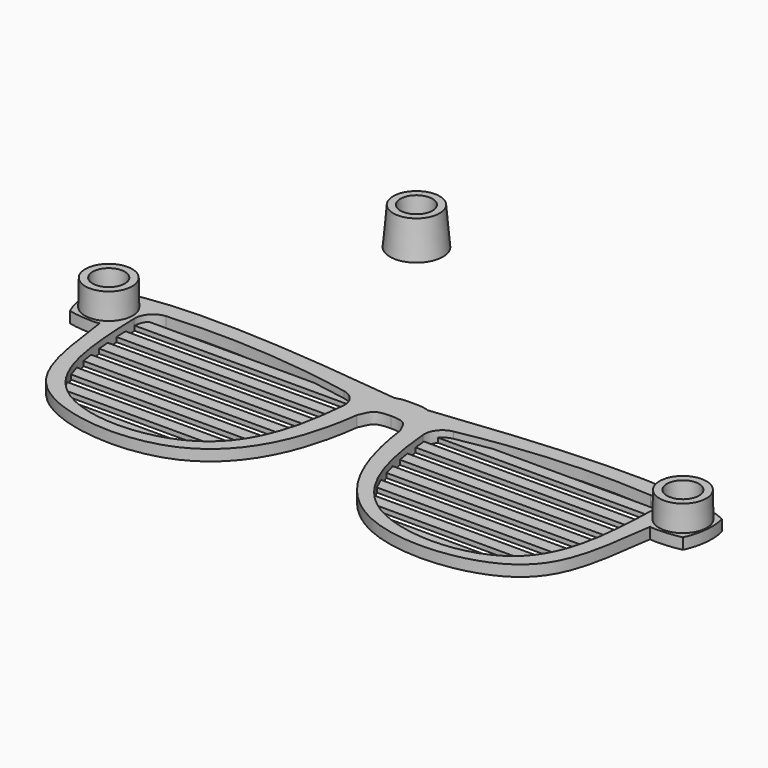
from build123d import *

# Parameters (mm, degrees)
F0_R     = 4.2545
F1_DEPTH = 3.048
F2_R     = 5.08
F3_W     = 65.2807955909
F3_H     = 3.302
F3_W_2   = 64.1696436953
F3_W_3   = 62.6255638493
F3_W_4   = 60.2943286079
F3_W_5   = 56.8069545572
F3_W_6   = 50.8615280304
F3_W_7   = 37.3823195696
F4_DEPTH = 1.27


with BuildPart() as f1:
    # F0 (on Top) → F1 (new body)
    with BuildSketch(Plane.XY):
        with BuildLine():
            Line((0, -8.8730009273), (0, -1.2523292311))
            add(Edge.make_bspline(
                [(0, -1.2523292311), (-1.4292717283, -1.2614199668), (-2.9572113157, -1.2042468041), (-4.5694260428, -1.8386781448)],
                knots=[0.0019069089, 0.0019069089, 0.0019069089, 0.0019069089, 4.6086544498, 4.6086544498, 4.6086544498, 4.6086544498], degree=3))
            add(Edge.make_bspline(
                [(-4.5694260428, -1.8386781448), (-23.0843636902, 0.1857081911), (-68.9428523183, 6.064933259), (-85.9333723783, -1.8386781448)],
                knots=[0, 0, 0, 0, 81.3639463355, 81.3639463355, 81.3639463355, 81.3639463355], degree=3))
            add(Edge.make_bspline(
                [(-85.9333723783, -1.8386781448), (-87.0814593515, -5.9048447471), (-86.3815992926, -10.3425437278), (-84.7224071622, -13.8138355687)],
                knots=[0, 0, 0, 0, 12.0362299779, 12.0362299779, 12.0362299779, 12.0362299779], degree=3))
            add(Edge.make_bspline(
                [(-84.7224071622, -13.8138355687), (-83.0701679625, -14.2861218212), (-77.9287879663, -14.8408171342), (-76.1110559106, -14.352045022)],
                knots=[0, 0, 0, 0, 8.6281539042, 8.6281539042, 8.6281539042, 8.6281539042], degree=3))
            add(Edge.make_bspline(
                [(-76.1110559106, -14.352045022), (-74.0379554043, -29.4360120441), (-71.9881603445, -50.8545666942), (-21.5287182005, -56.1706023297), (-8.3148330585, -31.3872885131), (-5.9164743883, -13.0610809346)],
                knots=[0, 0, 0, 0, 0.3150011717, 0.6467229326, 1, 1, 1, 1], degree=3))
            add(Edge.make_bspline(
                [(-5.9164743883, -13.0610809346), (-4.5382474029, -9.8770353113), (-4.35093372, -8.8730009273), (0, -8.8730009273)],
                knots=[0, 0, 0, 0, 7.2487711604, 7.2487711604, 7.2487711604, 7.2487711604], degree=3))
        make_face()
        with BuildLine():
            add(Edge.make_bspline(
                [(-71.8333795667, -3.2109194435), (-50.6750158966, -1.0436276207), (-29.6205928973, -2.9427556917), (-10.672422658, -7.01909621)],
                knots=[0, 0, 0, 0, 61.2793999666, 61.2793999666, 61.2793999666, 61.2793999666], degree=3))
            add(Edge.make_bspline(
                [(-10.672422658, -7.01909621), (-11.5552002954, -21.9885636193), (-16.4513738609, -50.7770592807), (-71.8775842024, -50.9692361726), (-71.2377431916, -18.4418388879), (-71.8333795667, -3.2109194435)],
                knots=[0, 0, 0, 0, 0.3334671903, 0.6588579594, 1, 1, 1, 1], degree=3))
        make_face(mode=Mode.SUBTRACT)
        with Locations((-79.375, -7.1177900798)):
            Circle(F0_R, mode=Mode.SUBTRACT)
    extrude(amount=F1_DEPTH)

    # F2
    f2_edges = [f1.edges().sort_by_distance(p)[0] for p in [
        (-71.83338, -3.210919, 1.524),
        (-10.672423, -7.019096, 1.524),
    ]]
    fillet(f2_edges, radius=F2_R)

    # F3 (on Top) → F4 (join)
    with BuildSketch(Plane.XY):
        with Locations((-40.2190175513, -6.1319849906)):
            Rectangle(F3_W, F3_H)
        with Locations((-41.2148298797, -12.7359849906)):
            Rectangle(F3_W_2, F3_H)
        with Locations((-41.6915302244, -19.3399849906)):
            Rectangle(F3_W_3, F3_H)
        with Locations((-41.7355327697, -25.9439849906)):
            Rectangle(F3_W_4, F3_H)
        with Locations((-41.8382631269, -32.5479849906)):
            Rectangle(F3_W_5, F3_H)
        with Locations((-42.6865061181, -39.1519849906)):
            Rectangle(F3_W_6, F3_H)
        with Locations((-43.0413708091, -45.7559849906)):
            Rectangle(F3_W_7, F3_H)
    extrude(amount=F4_DEPTH)

    # F8 (on plane+point) → F9 (revolve)
    with BuildSketch(Plane.XZ.offset(7.1177900798)):
        Polygon((-83.82, 10.16), (-85.852, 10.16), (-86.036877988, 0), (-83.439, 0), align=None)
    revolve(axis=Axis((-79.375, -7.1177900798, 2.4181767367), (0, 0, -1)))

    # F10: F1 across plane


with BuildPart() as f1_1:
    add(f1.part)
    add(f1.part.mirror(Plane.YZ))


with BuildPart() as f13:
    # F11 (on Front) → F13 (revolve)
    with BuildSketch(Plane.XZ):
        Polygon((4.445, 50.8290752769), (4.064, 40.5259914696), (7.3177055456, 40.5259914696), (6.4121334045, 50.8290752769), align=None)
    revolve(axis=Axis((0, 0, 46.0990490392), (0, 0, -1)))


solid = Compound([f1_1.part, f13.part])
